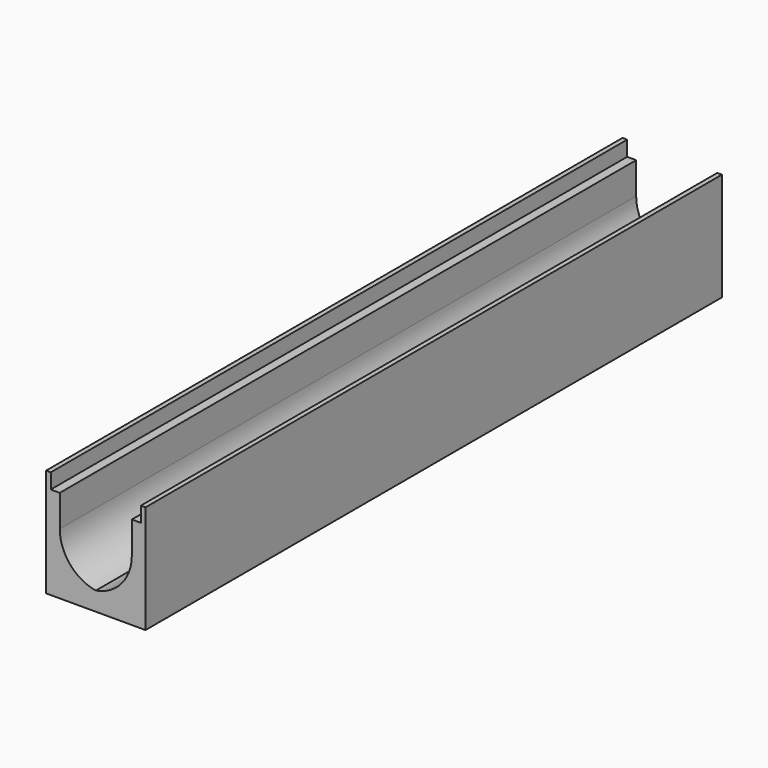
from build123d import *

# Parameters (mm, degrees)
F1_DEPTH = 1000


with BuildPart() as f1:
    # F0 (on Front) → F1 (new body)
    with BuildSketch(Plane.XZ):
        with BuildLine():
            Line((6.5, 0), (0, 0))
            Line((0, 0), (0, -150))
            Line((0, -150), (138, -150))
            Line((138, -150), (138, 0))
            Line((138, 0), (131.5, 0))
            Line((131.5, 0), (131.5, -21))
            Line((131.5, -21), (119, -21))
            Line((119, -21), (119, -65))
            ThreePointArc((119, -65), (104.825757, -103.729833), (69, -124.160798))
            ThreePointArc((69, -124.160798), (33.174243, -103.729833), (19, -65))
            Line((19, -65), (19, -21))
            Line((19, -21), (6.5, -21))
            Line((6.5, -21), (6.5, 0))
        make_face()
    extrude(amount=-F1_DEPTH)


solid = f1.part
